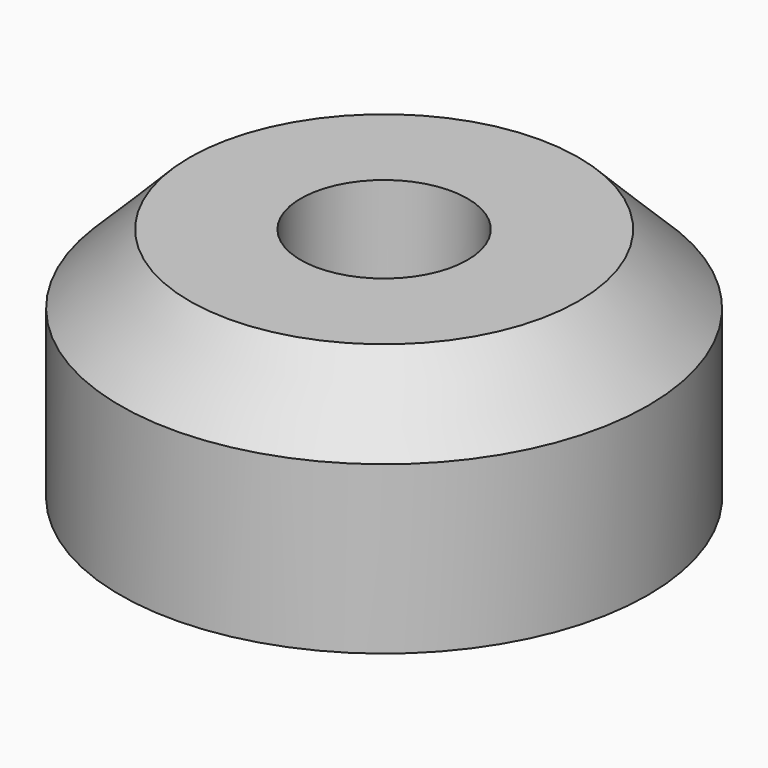
from build123d import *


with BuildPart() as part:
    # Sketch → Revolution (revolve)
    with BuildSketch(Plane.XZ):
        Polygon((1.5, 0), (4.75, 0), (4.75, 3), (3.5, 4.25), (1.5, 4.25), align=None)
    revolve(axis=Axis((0, 0, 0), (0, 0, 1)))


solid = part.part
